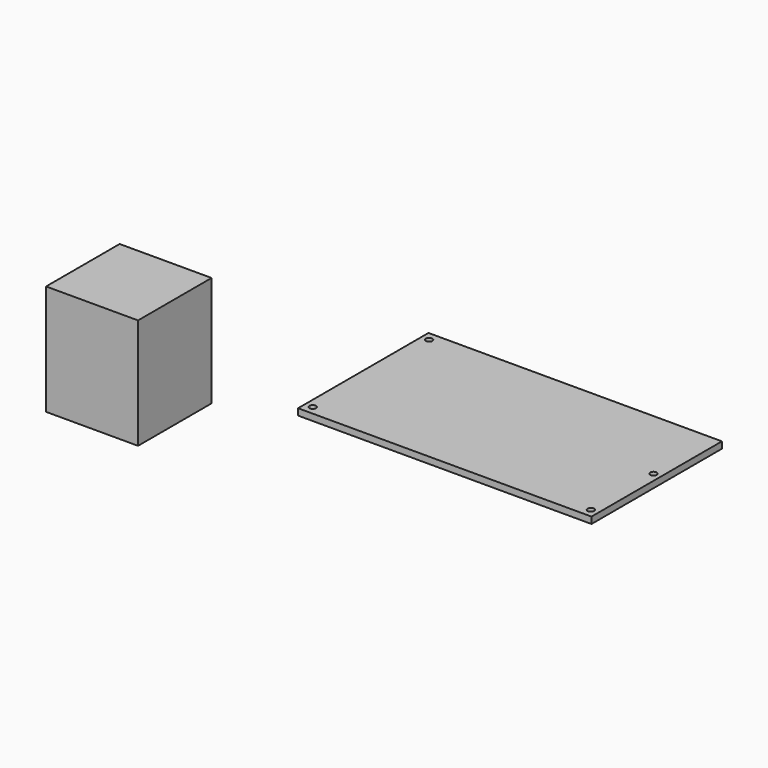
from build123d import *

# Parameters (mm, degrees)
F0_W     = 135
F0_H     = 75
F1_DEPTH = 3
F2_R     = 1.5
F3_DEPTH = 25
F4_W     = 42.3
F4_H     = 42.3
F5_DEPTH = 50.8


with BuildPart() as f1:
    # F0 (on Top) → F1 (new body)
    with BuildSketch(Plane.XY):
        with Locations((67.5, 37.5)):
            Rectangle(F0_W, F0_H)
    extrude(amount=F1_DEPTH)

    # F2 (on face) → F3 (cut)
    with BuildSketch(Plane.XY.offset(3)):
        with Locations((3.5, 71)):
            Circle(F2_R)
        with Locations((3.5, 4)):
            Circle(F2_R)
        with Locations((131.5, 4)):
            Circle(F2_R)
        with Locations((131.5, 40)):
            Circle(F2_R)
    extrude(amount=-F3_DEPTH, mode=Mode.SUBTRACT)


with BuildPart() as f5:
    # F4 (on Top) → F5 (new body)
    with BuildSketch(Plane.XY):
        with Locations((-51.362559, -33.123518)):
            Rectangle(F4_W, F4_H)
    extrude(amount=F5_DEPTH)


solid = Compound([f1.part, f5.part])
